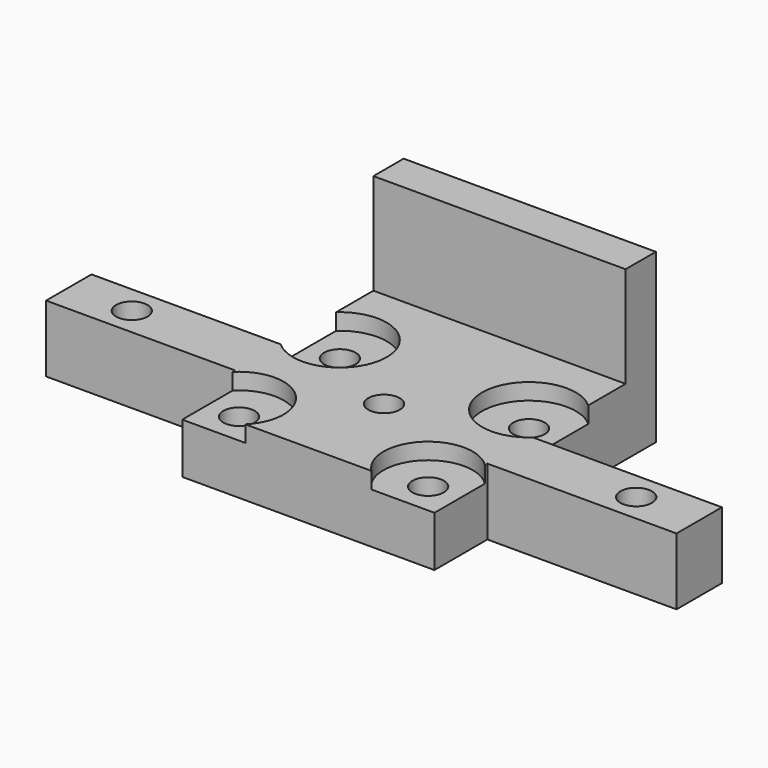
from build123d import *

# Parameters (mm, degrees)
SKETCH027_R     = 1.25
PAD016_DEPTH    = 5.3
SKETCH028_R     = 3.535534
SKETCH028_R_2   = 3.716517
POCKET008_DEPTH = 1.3
SKETCH032_W     = 20
SKETCH032_H     = 3
PAD019_DEPTH    = 8


with BuildPart() as part:
    # Sketch027 (on Face1 of ReferencePad002001) → Pad016 (new body)
    with BuildSketch(Plane.XY.offset(3.5)):
        Polygon((10, 124.725), (-10, 124.725), (-10, 129.975), (-25, 129.975), (-25, 134.475), (-10, 134.475), (-10, 139.725), (-10, 146.675), (10, 146.675), (10, 139.725), (10, 134.475), (25, 134.475), (25, 129.975), (10, 129.975), align=None)
        with Locations((7.5, 137.225)):
            Circle(SKETCH027_R, mode=Mode.SUBTRACT)
        with Locations((7.5, 127.225)):
            Circle(SKETCH027_R, mode=Mode.SUBTRACT)
        with Locations((-7.5, 127.225)):
            Circle(SKETCH027_R, mode=Mode.SUBTRACT)
        with Locations((-7.5, 137.225)):
            Circle(SKETCH027_R, mode=Mode.SUBTRACT)
        with Locations((-20, 132.225)):
            Circle(SKETCH027_R, mode=Mode.SUBTRACT)
        with Locations((0, 132.225)):
            Circle(SKETCH027_R, mode=Mode.SUBTRACT)
        with Locations((20, 132.225)):
            Circle(SKETCH027_R, mode=Mode.SUBTRACT)
    extrude(amount=PAD016_DEPTH)

    # Sketch028 (on Face23 of Pad016) → Pocket008 (cut)
    with BuildSketch(Plane.XY.offset(8.8)):
        with Locations((-7.5, 127.225)):
            Circle(SKETCH028_R)
        with Locations((7.5, 127.225)):
            Circle(SKETCH028_R)
        with Locations((-7.5, 137.225)):
            Circle(SKETCH028_R_2)
        with Locations((7.5, 137.225)):
            Circle(SKETCH028_R_2)
    extrude(amount=-POCKET008_DEPTH, mode=Mode.SUBTRACT)

    # Sketch032 (on Face6 of Pocket008) → Pad019 (join)
    with BuildSketch(Plane.XY.offset(8.8)):
        with Locations((0, 145.175)):
            Rectangle(SKETCH032_W, SKETCH032_H)
    extrude(amount=PAD019_DEPTH)


solid = part.part
